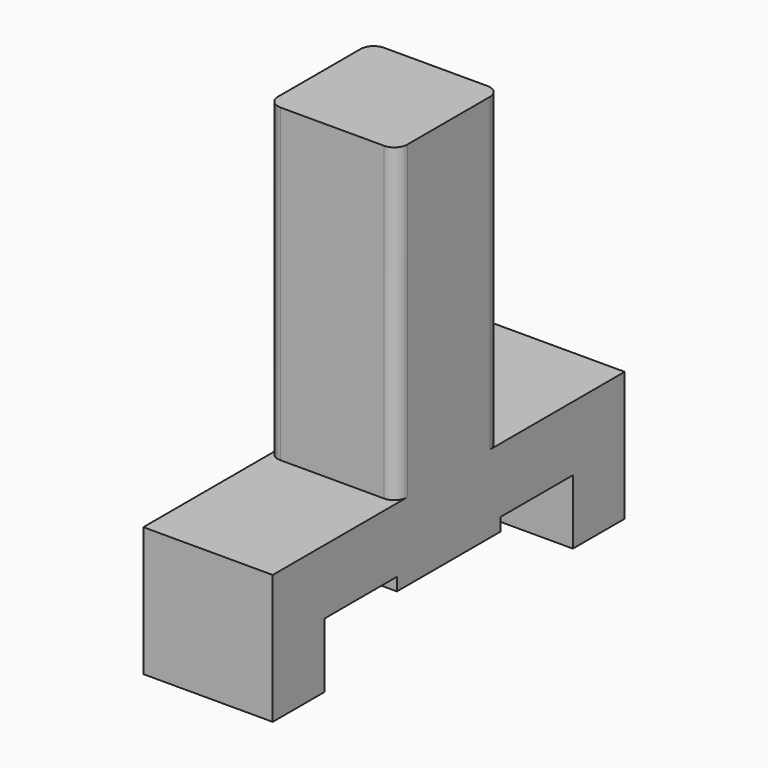
from build123d import *

# Parameters (mm, degrees)
F0_W     = 10
F0_H     = 24
F0_H_2   = 5
F0_W_2   = 7
F0_W_3   = 5
F0_H_3   = 1
F1_DEPTH = 10
F2_R     = 1
F3_R     = 1
F4_R     = 1
F5_R     = 1


with BuildPart() as f1:
    # F0 (on Right) → F1 (new body)
    with BuildSketch(Plane.YZ):
        with Locations((0, 3)):
            Rectangle(F0_W, F0_H)
        with Locations((0, -11.5)):
            Rectangle(F0_W, F0_H_2)
        with Locations((8.5, -11.5)):
            Rectangle(F0_W_2, F0_H_2)
        with Locations((14.5, -11.5)):
            Rectangle(F0_W_3, F0_H_2)
        with Locations((14.5, -16.5)):
            Rectangle(F0_W_3, F0_H_2)
        with Locations((-8.5, -11.5)):
            Rectangle(F0_W_2, F0_H_2)
        with Locations((-14.5, -11.5)):
            Rectangle(F0_W_3, F0_H_2)
        with Locations((-14.5, -16.5)):
            Rectangle(F0_W_3, F0_H_2)
        with Locations((0, -14.5)):
            Rectangle(F0_W, F0_H_3)
    extrude(amount=F1_DEPTH)

    # F2
    f2_edges = [f1.edges().sort_by_distance(p)[0] for p in [
        (0, 5, 3),
    ]]
    fillet(f2_edges, radius=F2_R)

    # F3
    f3_edges = [f1.edges().sort_by_distance(p)[0] for p in [
        (10, 5, 3),
    ]]
    fillet(f3_edges, radius=F3_R)

    # F4
    f4_edges = [f1.edges().sort_by_distance(p)[0] for p in [
        (0, -5, 3),
    ]]
    fillet(f4_edges, radius=F4_R)

    # F5
    f5_edges = [f1.edges().sort_by_distance(p)[0] for p in [
        (10, -5, 3),
    ]]
    fillet(f5_edges, radius=F5_R)


solid = f1.part
